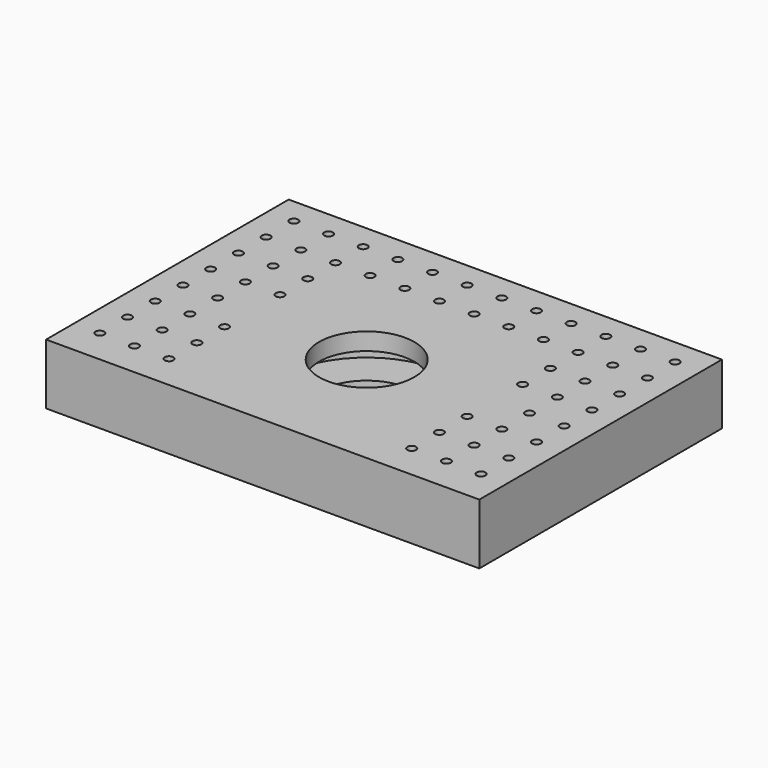
from build123d import *

# Parameters (mm, degrees)
F0_W     = 50
F0_H     = 35
F0_R     = 0.5
F0_R_2   = 10
F0_R_3   = 5.5
F1_DEPTH = 7
F2_START = 2
F2_DEPTH = 3


with BuildPart() as f1:
    # F0 (on Top) → F1 (new body)
    with BuildSketch(Plane.XY):
        with Locations((-8.4370832344, 3.1877499125)):
            Rectangle(F0_W, F0_H)
        with Locations((-30.4370832344, -10.3122500875)):
            Circle(F0_R, mode=Mode.SUBTRACT)
        with Locations((-26.4370832344, -10.3122500875)):
            Circle(F0_R, mode=Mode.SUBTRACT)
        with Locations((-22.4370832344, -10.3122500875)):
            Circle(F0_R, mode=Mode.SUBTRACT)
        with Locations((-30.4370832344, -6.3122500875)):
            Circle(F0_R, mode=Mode.SUBTRACT)
        with Locations((-26.4370832344, -6.3122500875)):
            Circle(F0_R, mode=Mode.SUBTRACT)
        with Locations((-22.4370832344, -6.3122500875)):
            Circle(F0_R, mode=Mode.SUBTRACT)
        with Locations((-30.4370832344, -2.3122500875)):
            Circle(F0_R, mode=Mode.SUBTRACT)
        with Locations((-26.4370832344, -2.3122500875)):
            Circle(F0_R, mode=Mode.SUBTRACT)
        with Locations((-22.4370832344, -2.3122500875)):
            Circle(F0_R, mode=Mode.SUBTRACT)
        with Locations((-30.4370832344, 1.6877499125)):
            Circle(F0_R, mode=Mode.SUBTRACT)
        with Locations((-26.4370832344, 1.6877499125)):
            Circle(F0_R, mode=Mode.SUBTRACT)
        with Locations((5.5629167656, -10.3122500875)):
            Circle(F0_R, mode=Mode.SUBTRACT)
        with Locations((9.5629167656, -10.3122500875)):
            Circle(F0_R, mode=Mode.SUBTRACT)
        with Locations((13.5629167656, -10.3122500875)):
            Circle(F0_R, mode=Mode.SUBTRACT)
        with Locations((5.5629167656, -6.3122500875)):
            Circle(F0_R, mode=Mode.SUBTRACT)
        with Locations((9.5629167656, -6.3122500875)):
            Circle(F0_R, mode=Mode.SUBTRACT)
        with Locations((13.5629167656, -6.3122500875)):
            Circle(F0_R, mode=Mode.SUBTRACT)
        with Locations((-8.4370832344, 0.6877499125)):
            Circle(F0_R_2, mode=Mode.SUBTRACT)
        with Locations((5.5629167656, -2.3122500875)):
            Circle(F0_R, mode=Mode.SUBTRACT)
        with Locations((9.5629167656, -2.3122500875)):
            Circle(F0_R, mode=Mode.SUBTRACT)
        with Locations((13.5629167656, -2.3122500875)):
            Circle(F0_R, mode=Mode.SUBTRACT)
        with Locations((9.5629167656, 1.6877499125)):
            Circle(F0_R, mode=Mode.SUBTRACT)
        with Locations((13.5629167656, 1.6877499125)):
            Circle(F0_R, mode=Mode.SUBTRACT)
        with Locations((-30.4370832344, 5.6877499125)):
            Circle(F0_R, mode=Mode.SUBTRACT)
        with Locations((-26.4370832344, 5.6877499125)):
            Circle(F0_R, mode=Mode.SUBTRACT)
        with Locations((-22.4370832344, 5.6877499125)):
            Circle(F0_R, mode=Mode.SUBTRACT)
        with Locations((-30.4370832344, 9.6877499125)):
            Circle(F0_R, mode=Mode.SUBTRACT)
        with Locations((-26.4370832344, 9.6877499125)):
            Circle(F0_R, mode=Mode.SUBTRACT)
        with Locations((-22.4370832344, 9.6877499125)):
            Circle(F0_R, mode=Mode.SUBTRACT)
        with Locations((-30.4370832344, 13.6877499125)):
            Circle(F0_R, mode=Mode.SUBTRACT)
        with Locations((-26.4370832344, 13.6877499125)):
            Circle(F0_R, mode=Mode.SUBTRACT)
        with Locations((-22.4370832344, 13.6877499125)):
            Circle(F0_R, mode=Mode.SUBTRACT)
        with Locations((-30.4370832344, 17.6877499125)):
            Circle(F0_R, mode=Mode.SUBTRACT)
        with Locations((-26.4370832344, 17.6877499125)):
            Circle(F0_R, mode=Mode.SUBTRACT)
        with Locations((-22.4370832344, 17.6877499125)):
            Circle(F0_R, mode=Mode.SUBTRACT)
        with Locations((-18.4370832344, 13.6877499125)):
            Circle(F0_R, mode=Mode.SUBTRACT)
        with Locations((-14.4370832344, 13.6877499125)):
            Circle(F0_R, mode=Mode.SUBTRACT)
        with Locations((-10.4370832344, 13.6877499125)):
            Circle(F0_R, mode=Mode.SUBTRACT)
        with Locations((-18.4370832344, 17.6877499125)):
            Circle(F0_R, mode=Mode.SUBTRACT)
        with Locations((-14.4370832344, 17.6877499125)):
            Circle(F0_R, mode=Mode.SUBTRACT)
        with Locations((-10.4370832344, 17.6877499125)):
            Circle(F0_R, mode=Mode.SUBTRACT)
        with Locations((5.5629167656, 5.6877499125)):
            Circle(F0_R, mode=Mode.SUBTRACT)
        with Locations((9.5629167656, 5.6877499125)):
            Circle(F0_R, mode=Mode.SUBTRACT)
        with Locations((13.5629167656, 5.6877499125)):
            Circle(F0_R, mode=Mode.SUBTRACT)
        with Locations((5.5629167656, 9.6877499125)):
            Circle(F0_R, mode=Mode.SUBTRACT)
        with Locations((9.5629167656, 9.6877499125)):
            Circle(F0_R, mode=Mode.SUBTRACT)
        with Locations((13.5629167656, 9.6877499125)):
            Circle(F0_R, mode=Mode.SUBTRACT)
        with Locations((-6.4370832344, 13.6877499125)):
            Circle(F0_R, mode=Mode.SUBTRACT)
        with Locations((-2.4370832344, 13.6877499125)):
            Circle(F0_R, mode=Mode.SUBTRACT)
        with Locations((1.5629167656, 13.6877499125)):
            Circle(F0_R, mode=Mode.SUBTRACT)
        with Locations((-6.4370832344, 17.6877499125)):
            Circle(F0_R, mode=Mode.SUBTRACT)
        with Locations((-2.4370832344, 17.6877499125)):
            Circle(F0_R, mode=Mode.SUBTRACT)
        with Locations((1.5629167656, 17.6877499125)):
            Circle(F0_R, mode=Mode.SUBTRACT)
        with Locations((5.5629167656, 13.6877499125)):
            Circle(F0_R, mode=Mode.SUBTRACT)
        with Locations((9.5629167656, 13.6877499125)):
            Circle(F0_R, mode=Mode.SUBTRACT)
        with Locations((13.5629167656, 13.6877499125)):
            Circle(F0_R, mode=Mode.SUBTRACT)
        with Locations((5.5629167656, 17.6877499125)):
            Circle(F0_R, mode=Mode.SUBTRACT)
        with Locations((9.5629167656, 17.6877499125)):
            Circle(F0_R, mode=Mode.SUBTRACT)
        with Locations((13.5629167656, 17.6877499125)):
            Circle(F0_R, mode=Mode.SUBTRACT)
        with Locations((-8.4370832344, 0.6877499125)):
            Circle(F0_R_2)
        with Locations((-8.4370832344, 0.6877499125)):
            Circle(F0_R_3, mode=Mode.SUBTRACT)
    extrude(amount=F1_DEPTH)


with BuildPart() as f2:
    # F0 (on Top) → F2 (new body)
    with BuildSketch(Plane.XY.offset(F2_START)):
        with Locations((-8.4370832344, 0.6877499125)):
            Circle(F0_R_2)
        with Locations((-8.4370832344, 0.6877499125)):
            Circle(F0_R_3, mode=Mode.SUBTRACT)
    extrude(amount=F2_DEPTH)


with BuildPart() as f1_1:
    add(f1.part)

    # F3: cut F2
    add(f2.part, mode=Mode.SUBTRACT)


solid = f1_1.part
